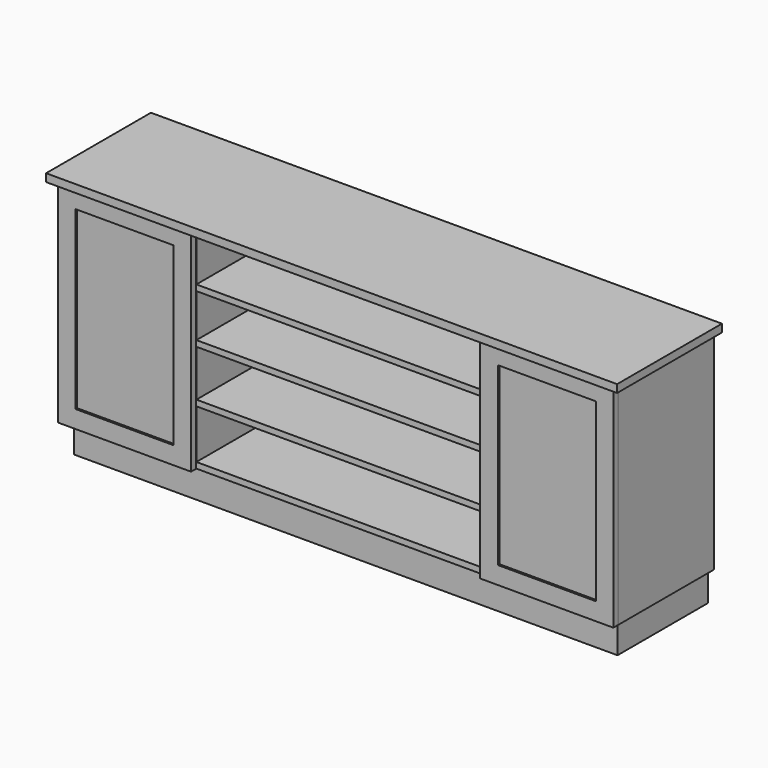
from build123d import *

# Parameters (mm, degrees)
F0_W      = 317.978578
F0_H      = 571.570131
F1_DEPTH  = 408.94
F0_W_2    = 938.983108
F0_H_2    = 19.05
F2_DEPTH  = 387.35
F3_DEPTH  = 425.45
F4_W      = 2.54
F4_H      = 685.8
F5_DEPTH  = 432.208446
F6_W      = 2.54
F6_H      = 685.8
F7_DEPTH  = 432.208446
F8_DEPTH  = 368.3
F0_H_3    = 159.172786
F0_H_4    = 140.123955
F0_H_5    = 151.15178
F0_H_6    = 159.151479
F9_DEPTH  = 12.7
F10_W     = 317.978578
F10_H     = 571.570131
F11_DEPTH = 6.35


with BuildPart() as f1:
    # F0 (on Front) → F1 (new body)
    with BuildSketch(Plane.XZ):
        Polygon((-469.491554, 385.952815), (-901.7, 385.952815), (-901.7, -299.847185), (-882.65, -299.847185), (-469.491554, -299.847185), (-469.491554, -280.797185), (-469.491554, -121.645706), (-469.491554, -102.595706), (-469.491554, 48.556074), (-469.491554, 67.606074), (-469.491554, 207.730029), (-469.491554, 226.780029), align=None)
        with Locations((-685.595777, 43.052815)):
            Rectangle(F0_W, F0_H, mode=Mode.SUBTRACT)
        Polygon((901.7, 385.952815), (469.491554, 385.952815), (469.491554, 226.780029), (469.491554, 207.730029), (469.491554, 67.606074), (469.491554, 48.556074), (469.491554, -102.595706), (469.491554, -121.645706), (469.491554, -280.797185), (469.491554, -299.847185), (882.65, -299.847185), (901.7, -299.847185), align=None)
        with Locations((685.595777, 43.052815)):
            Rectangle(F0_W, F0_H, mode=Mode.SUBTRACT)
        with Locations((-685.595777, 43.052815)):
            Rectangle(F0_W, F0_H)
        with Locations((685.595777, 43.052815)):
            Rectangle(F0_W, F0_H)
    extrude(amount=F1_DEPTH)

    # F4 (on face) → F5 (cut, through all)
    with BuildSketch(Plane(origin=(-901.7, 0, 0), x_dir=(0, -1, 0), z_dir=(-1, 0, 0))):
        with Locations((388.62, 43.052815)):
            Rectangle(F4_W, F4_H)
    extrude(amount=-F5_DEPTH, mode=Mode.SUBTRACT)

    # F10 (on face) → F11 (cut)
    with BuildSketch(Plane.XZ.offset(408.94)):
        with Locations((685.595777, 43.052815)):
            Rectangle(F10_W, F10_H)
        with Locations((-685.595777, 43.052815)):
            Rectangle(F10_W, F10_H)
    extrude(amount=-F11_DEPTH, mode=Mode.SUBTRACT)


with BuildPart() as f2:
    # F0 (on Front) → F2 (new body)
    with BuildSketch(Plane.XZ):
        with Locations((0, 217.255029)):
            Rectangle(F0_W_2, F0_H_2)
        with Locations((0, 58.081074)):
            Rectangle(F0_W_2, F0_H_2)
        with Locations((0, -112.120706)):
            Rectangle(F0_W_2, F0_H_2)
        with Locations((0, -290.322185)):
            Rectangle(F0_W_2, F0_H_2)
    extrude(amount=F2_DEPTH)


with BuildPart() as f3:
    # F0 (on Front) → F3 (new body)
    with BuildSketch(Plane.XZ):
        Polygon((-927.1, 385.952815), (-901.7, 385.952815), (-469.491554, 385.952815), (469.491554, 385.952815), (901.7, 385.952815), (927.1, 385.952815), (927.1, 411.352815), (-927.1, 411.352815), align=None)
    extrude(amount=F3_DEPTH)


with BuildPart() as f7:
    # F6 (on face) → F7 (new body, through all)
    with BuildSketch(Plane.YZ.offset(901.7)):
        with Locations((-388.62, 43.052815)):
            Rectangle(F6_W, F6_H)
    extrude(amount=-F7_DEPTH)


with BuildPart() as f8:
    # F0 (on Front) → F8 (new body)
    with BuildSketch(Plane.XZ):
        Polygon((-469.491554, -299.847185), (-882.65, -299.847185), (-882.65, -401.447185), (882.65, -401.447185), (882.65, -299.847185), (469.491554, -299.847185), align=None)
    extrude(amount=F8_DEPTH)


with BuildPart() as f9:
    # F0 (on Front) → F9 (new body)
    with BuildSketch(Plane.XZ):
        with Locations((0, 306.366422)):
            Rectangle(F0_W_2, F0_H_3)
        with Locations((0, 137.668051)):
            Rectangle(F0_W_2, F0_H_4)
        with Locations((0, -27.019816)):
            Rectangle(F0_W_2, F0_H_5)
        with Locations((0, -201.221446)):
            Rectangle(F0_W_2, F0_H_6)
    extrude(amount=F9_DEPTH)


solid = Compound([f1.part, f2.part, f3.part, f7.part, f8.part, f9.part])
